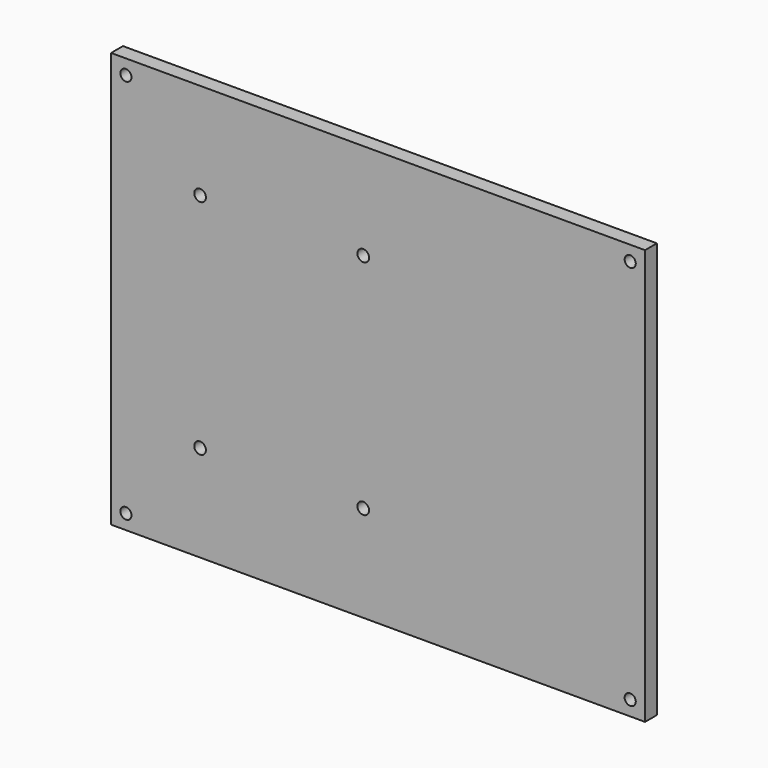
from build123d import *

# Parameters (mm, degrees)
F0_W     = 457.2
F0_H     = 355.6
F0_R     = 4.7625
F0_R_2   = 5
F1_DEPTH = 12.7


with BuildPart() as f1:
    # F0 (on Front) → F1 (new body)
    with BuildSketch(Plane.XZ):
        with Locations((25.734076, 60.065872)):
            Rectangle(F0_W, F0_H)
        with Locations((-190.165924, -105.034128)):
            Circle(F0_R, mode=Mode.SUBTRACT)
        with Locations((-126.665924, -35.184128)):
            Circle(F0_R_2, mode=Mode.SUBTRACT)
        with Locations((13.034076, -35.184128)):
            Circle(F0_R_2, mode=Mode.SUBTRACT)
        with Locations((241.634076, -105.034128)):
            Circle(F0_R, mode=Mode.SUBTRACT)
        with Locations((-126.665924, 155.315872)):
            Circle(F0_R_2, mode=Mode.SUBTRACT)
        with Locations((-190.165924, 225.165872)):
            Circle(F0_R, mode=Mode.SUBTRACT)
        with Locations((13.034076, 155.315872)):
            Circle(F0_R_2, mode=Mode.SUBTRACT)
        with Locations((241.634076, 225.165872)):
            Circle(F0_R, mode=Mode.SUBTRACT)
    extrude(amount=F1_DEPTH)


solid = f1.part
